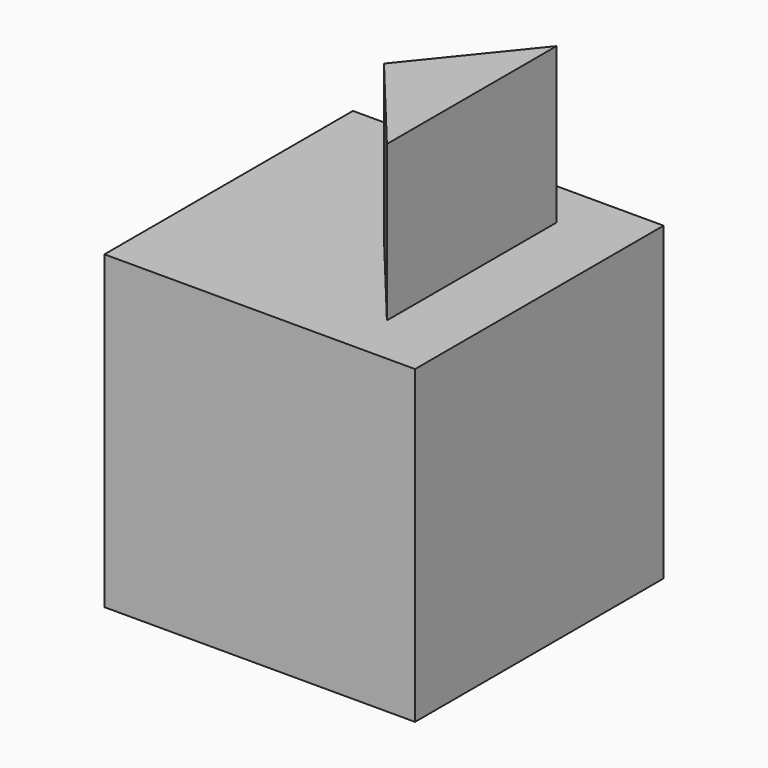
from build123d import *

# Parameters (mm, degrees)
F0_W     = 50
F0_H     = 50
F1_DEPTH = 50
F3_DEPTH = 25


with BuildPart() as f1:
    # F0 (on Top) → F1 (new body)
    with BuildSketch(Plane.XY):
        Rectangle(F0_W, F0_H)
    extrude(amount=F1_DEPTH)

    # F2 (on face) → F3 (join)
    with BuildSketch(Plane.XY.offset(50)):
        Polygon((13.965519, 17.262932), (0, 0), (13.965519, -16.875001), align=None)
    extrude(amount=F3_DEPTH)


solid = f1.part
